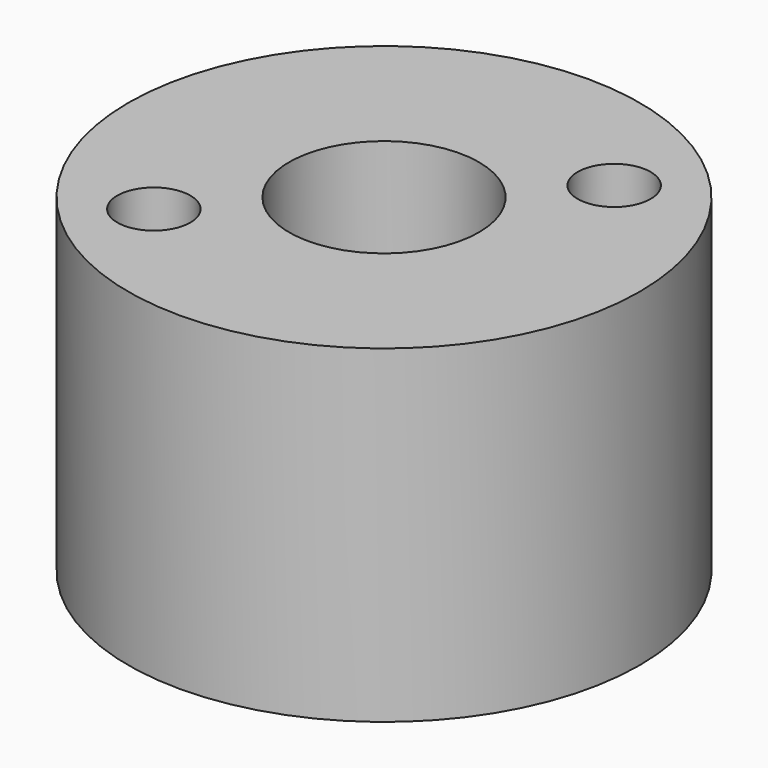
from build123d import *

# Parameters (mm, degrees)
CYLINDER1283_R     = 1
CYLINDER1283_DEPTH = 20
CYLINDER1280_R     = 1
CYLINDER1280_DEPTH = 20
CYLINDER1279_R     = 2.6
CYLINDER1279_DEPTH = 12
CYLINDER1293_R     = 7
CYLINDER1293_DEPTH = 9


with BuildPart() as obj1:
    # Cylinder1283 → Cylinder1283 (new body)
    with BuildSketch(Plane(origin=(-3.5, -3.5, 0), x_dir=(1, 0, 0), z_dir=(0, 0, 1))):
        Circle(CYLINDER1283_R)
    extrude(amount=CYLINDER1283_DEPTH)


with BuildPart() as compound693:
    # Cylinder1280 → Cylinder1280 (new body)
    with BuildSketch(Plane(origin=(3.5, 3.5, 0), x_dir=(1, 0, 0), z_dir=(0, 0, 1))):
        Circle(CYLINDER1280_R)
    extrude(amount=CYLINDER1280_DEPTH)

    # Compound693: union obj1
    add(obj1.part)


with BuildPart() as obj2:
    # Cylinder1279 → Cylinder1279 (new body)
    with BuildSketch(Plane.XY.offset(13)):
        Circle(CYLINDER1279_R)
    extrude(amount=CYLINDER1279_DEPTH)


with BuildPart() as cut484:
    # Cylinder1293 → Cylinder1293 (new body)
    with BuildSketch(Plane.XY.offset(13)):
        Circle(CYLINDER1293_R)
    extrude(amount=CYLINDER1293_DEPTH)

    # Cut490: cut obj2
    add(obj2.part, mode=Mode.SUBTRACT)


with BuildPart() as cut484_1:
    # Cut490 placement: moved
    add(cut484.part.moved(Location((0, 0, -2))))

    # Cut484: cut Compound693
    add(compound693.part, mode=Mode.SUBTRACT)


solid = cut484_1.part
